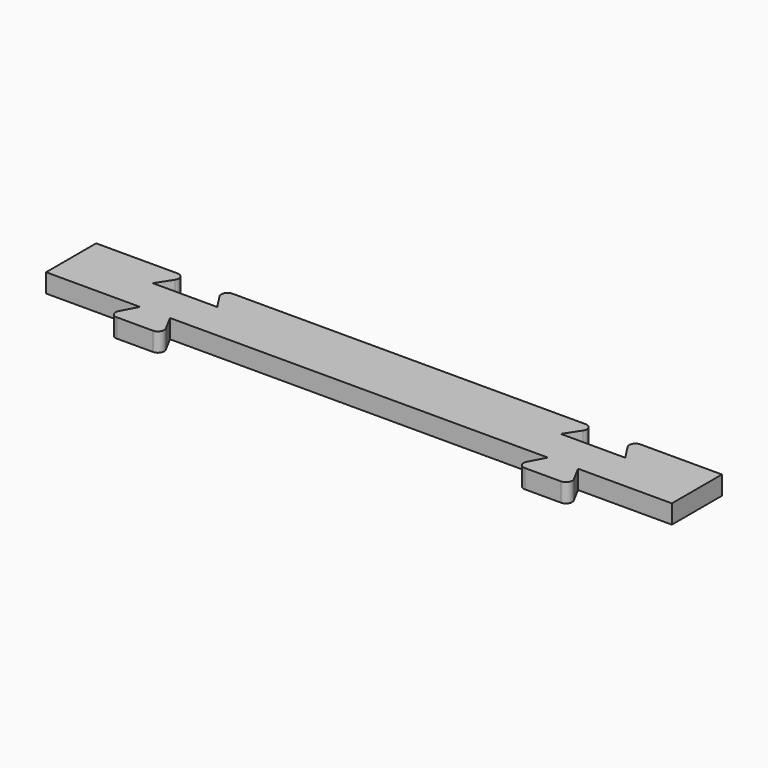
from build123d import *

# Parameters (mm, degrees)
F1_DEPTH = 3
F2_R     = 1


with BuildPart() as f1:
    # F0 (on Top) → F1 (new body)
    with BuildSketch(Plane.XY):
        Polygon((35, -5), (50, -5), (50, 5), (35.15, 5), (37.75, 1), (27.45, 1), (30.05, 5), (-30.05, 5), (-27.45, 1), (-37.75, 1), (-35.15, 5), (-50, 5), (-50, -5), (-35, -5), (-30.2, -5), (30.2, -5), align=None)
        Polygon((-28.05, -9), (-30.2, -5), (-35, -5), (-37.15, -9), align=None)
        Polygon((37.15, -9), (35, -5), (30.2, -5), (28.05, -9), align=None)
    extrude(amount=F1_DEPTH)

    # F2
    f2_edges = [f1.edges().sort_by_distance(p)[0] for p in [
        (-28.05, -9, 1.5),
        (-37.15, -9, 1.5),
        (37.15, -9, 1.5),
        (28.05, -9, 1.5),
        (30.05, 5, 1.5),
        (-35.15, 5, 1.5),
        (-30.05, 5, 1.5),
        (35.15, 5, 1.5),
    ]]
    fillet(f2_edges, radius=F2_R)


solid = f1.part
